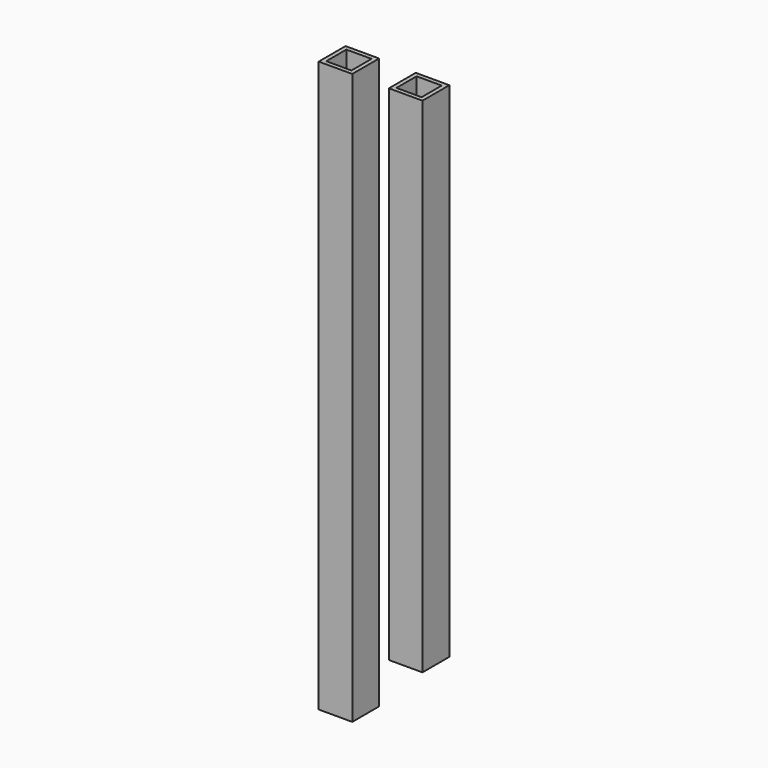
from build123d import *

# Parameters (mm, degrees)
F0_W     = 25.4
F0_H     = 431.8
F1_DEPTH = 25.4
F0_H_2   = 381
F2_T     = -3.175
F2_2_T   = -3.175


with BuildPart() as f1:
    # F0 (on Front) → F1 (new body)
    with BuildSketch(Plane.XZ):
        with Locations((-18.5653362423, 195.6893682097)):
            Rectangle(F0_W, F0_H)
    extrude(amount=F1_DEPTH)

    # F2
    f2_openings = [f1.faces().sort_by_distance(p)[0] for p in [
        (-18.565336, -12.7, 411.589368),
        (-18.565336, -12.7, -20.210632),
    ]]
    offset(amount=F2_T, openings=f2_openings)


with BuildPart() as f1b:
    # F0 (on Front) → F1, piece 2 (new body)
    with BuildSketch(Plane.XZ):
        with Locations((34.5637455255, 220.562649399)):
            Rectangle(F0_W, F0_H_2)
    extrude(amount=F1_DEPTH)

    # F2#2
    f2_2_openings = [f1b.faces().sort_by_distance(p)[0] for p in [
        (34.563746, -12.7, 411.062649),
        (34.563746, -12.7, 30.062649),
    ]]
    offset(amount=F2_2_T, openings=f2_2_openings)


solid = Compound([f1.part, f1b.part])
